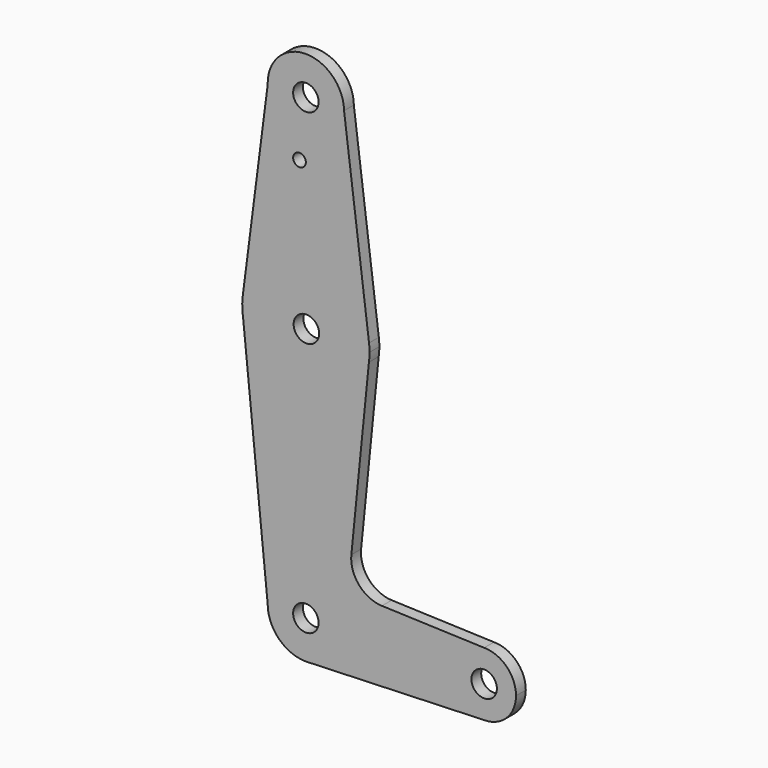
from build123d import *

# Parameters (mm, degrees)
F0_R     = 3.175
F0_R_2   = 1.5875
F1_DEPTH = 3.048


with BuildPart() as f1:
    # F0 (on Front) → F1 (new body)
    with BuildSketch(Plane.XZ):
        with BuildLine():
            ThreePointArc((-9.642286, 50.498019), (0.028935, 41.276197), (9.402925, 50.8))
            ThreePointArc((9.402925, 50.8), (9.402629, 50.875174), (9.401739, 50.950343))
            ThreePointArc((9.401739, 50.950343), (-0.348244, 60.322314), (-9.642286, 50.498019))
        make_face()
        with Locations((-0.122075, 50.8)):
            Circle(F0_R, mode=Mode.SUBTRACT)
        with BuildLine():
            ThreePointArc((9.401739, 50.950343), (9.402629, 50.875174), (9.402925, 50.8))
            ThreePointArc((9.402925, 50.8), (0.028935, 41.276197), (-9.642286, 50.498019))
            Line((-9.642286, 50.498019), (-15.867761, 2.022126))
            ThreePointArc((-15.867761, 2.022126), (-0.11223, 15.874997), (15.626107, 2.002595))
            Line((15.626107, 2.002595), (9.401739, 50.950343))
        make_face()
        with Locations((-1.709575, 36.5252)):
            Circle(F0_R_2, mode=Mode.SUBTRACT)
        with BuildLine():
            ThreePointArc((15.752925, 0), (15.721189, 1.003303), (15.626107, 2.002595))
            ThreePointArc((15.626107, 2.002595), (-0.11223, 15.874997), (-15.867761, 2.022126))
            ThreePointArc((-15.867761, 2.022126), (-15.993681, -0.328242), (-15.770694, -2.671394))
            ThreePointArc((-15.770694, -2.671394), (0.101257, -15.873429), (15.595506, -2.230087))
            ThreePointArc((15.595506, -2.230087), (15.713522, -1.117818), (15.752925, 0))
        make_face()
        Circle(F0_R, mode=Mode.SUBTRACT)
        with BuildLine():
            ThreePointArc((15.595506, -2.230087), (0.101257, -15.873429), (-15.770694, -2.671394))
            Line((-15.770694, -2.671394), (-9.647075, -63.5))
            ThreePointArc((-9.647075, -63.5), (-0.122075, -53.975), (9.402925, -63.5))
            ThreePointArc((9.402925, -63.5), (6.808006, -70.034493), (0.437129, -73.008571))
            Line((0.437129, -73.008571), (44.327925, -71.4375))
            ThreePointArc((44.327925, -71.4375), (36.390425, -63.5), (44.327925, -55.5625))
            Line((44.327925, -55.5625), (18.840768, -54.650187))
            ThreePointArc((18.840768, -54.650187), (13.135228, -51.932537), (11.214647, -45.911725))
            Line((11.214647, -45.911725), (15.595506, -2.230087))
        make_face()
        with BuildLine():
            ThreePointArc((9.402925, -63.5), (-0.122075, -53.975), (-9.647075, -63.5))
            ThreePointArc((-9.647075, -63.5), (-6.813968, -70.278215), (0, -73.024218))
            Line((0, -73.024218), (0.437129, -73.008571))
            ThreePointArc((0.437129, -73.008571), (6.808006, -70.034493), (9.402925, -63.5))
        make_face()
        with Locations((-0.122075, -63.5)):
            Circle(F0_R, mode=Mode.SUBTRACT)
        with BuildLine():
            Line((0.437129, -73.008571), (0, -73.024218))
            ThreePointArc((0, -73.024218), (0.218654, -73.018904), (0.437129, -73.008571))
        make_face()
        with BuildLine():
            ThreePointArc((52.265425, -63.5), (49.940585, -57.88734), (44.327925, -55.5625))
            ThreePointArc((44.327925, -55.5625), (36.390425, -63.5), (44.327925, -71.4375))
            ThreePointArc((44.327925, -71.4375), (49.940585, -69.11266), (52.265425, -63.5))
        make_face()
        with Locations((44.327925, -63.5)):
            Circle(F0_R, mode=Mode.SUBTRACT)
    extrude(amount=F1_DEPTH)


solid = f1.part
